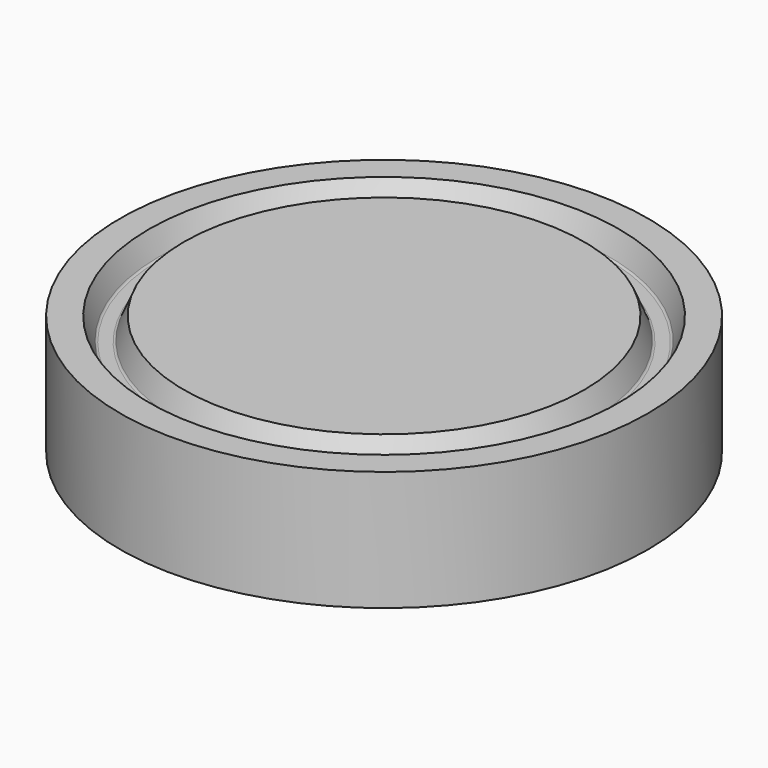
from build123d import *

# Parameters (mm, degrees)
F0_R     = 90.5
F1_DEPTH = 41.1


with BuildPart() as f1:
    # F0 (on Top) → F1 (new body)
    with BuildSketch(Plane.XY):
        with Locations((-117.5, 0)):
            Circle(F0_R)
    extrude(amount=F1_DEPTH)

    # F2 (on Front) → F3 (revolve, cut)
    with BuildSketch(Plane.XZ):
        with BuildLine():
            Line((-189.314945, 33.667415), (-186.16, 41.1))
            Line((-186.16, 41.1), (-198.07, 41.1))
            Line((-198.07, 41.1), (-194.915055, 33.667415))
            ThreePointArc((-194.915055, 33.667415), (-194.620201, 33.312891), (-194.178651, 33.18))
            Line((-194.178651, 33.18), (-190.051349, 33.18))
            ThreePointArc((-190.051349, 33.18), (-189.609799, 33.312891), (-189.314945, 33.667415))
        make_face()
        with BuildLine():
            ThreePointArc((-189.314945, 7.432585), (-189.609799, 7.787109), (-190.051349, 7.92))
            Line((-190.051349, 7.92), (-194.178651, 7.92))
            ThreePointArc((-194.178651, 7.92), (-194.620201, 7.787109), (-194.915055, 7.432585))
            Line((-194.915055, 7.432585), (-198.07, 0))
            Line((-198.07, 0), (-186.16, 0))
            Line((-186.16, 0), (-189.314945, 7.432585))
        make_face()
    revolve(axis=Axis((-117.5, 0, 20.55), (0, 0, -1)), mode=Mode.SUBTRACT)


solid = f1.part
